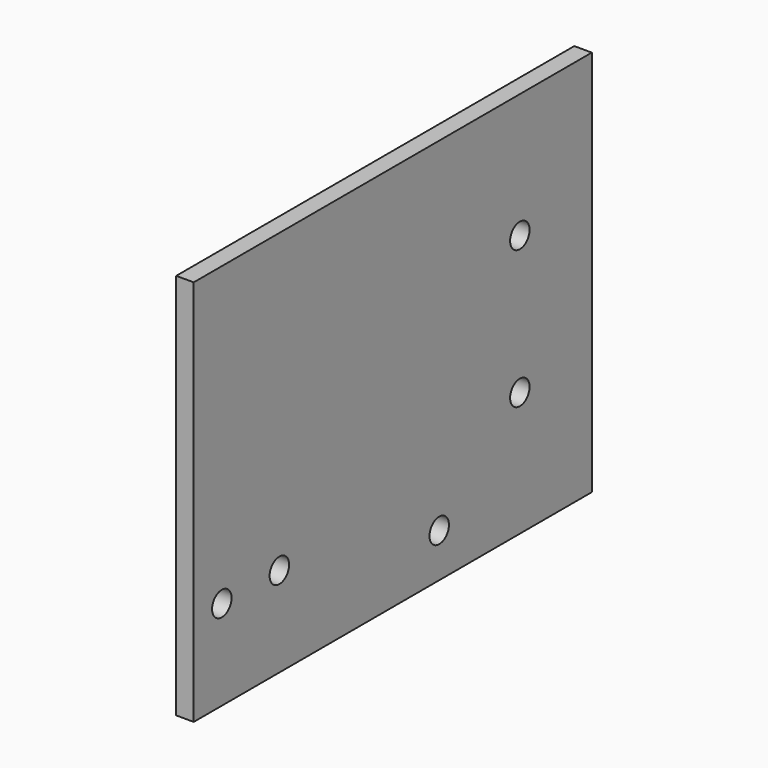
from build123d import *

# Parameters (mm, degrees)
F0_W     = 3.175
F0_H     = 90
F1_DEPTH = 70
F3_D     = 4.4
F5_D     = 4.4
F5_DEPTH = 25
F5_TIP   = 1.3218933619


with BuildPart() as f1:
    # F0 (on Top) → F1 (new body)
    with BuildSketch(Plane.XY):
        Rectangle(F0_W, F0_H)
    extrude(amount=F1_DEPTH)

    # F3 (through all)
    with Locations(Plane(origin=(-1.5875, 0, 0), x_dir=(0, -1, 0), z_dir=(-1, 0, 0))):
        with Locations((-28.728, 47.5), (-28.728, 22.5)):
            Hole(F3_D / 2)

    # F5
    with Locations(Plane(origin=(-1.5875, 0, 0), x_dir=(0, -1, 0), z_dir=(-1, 0, 0))):
        with Locations((38.65, 16.272), (25.65, 16.272), (-10.5, 7.9375)):
            Hole(F5_D / 2, depth=F5_DEPTH)
            with Locations((0, 0, -(F5_DEPTH + F5_TIP / 2))):  # 118° drill point
                Cone(0, F5_D / 2, F5_TIP, mode=Mode.SUBTRACT)


solid = f1.part
